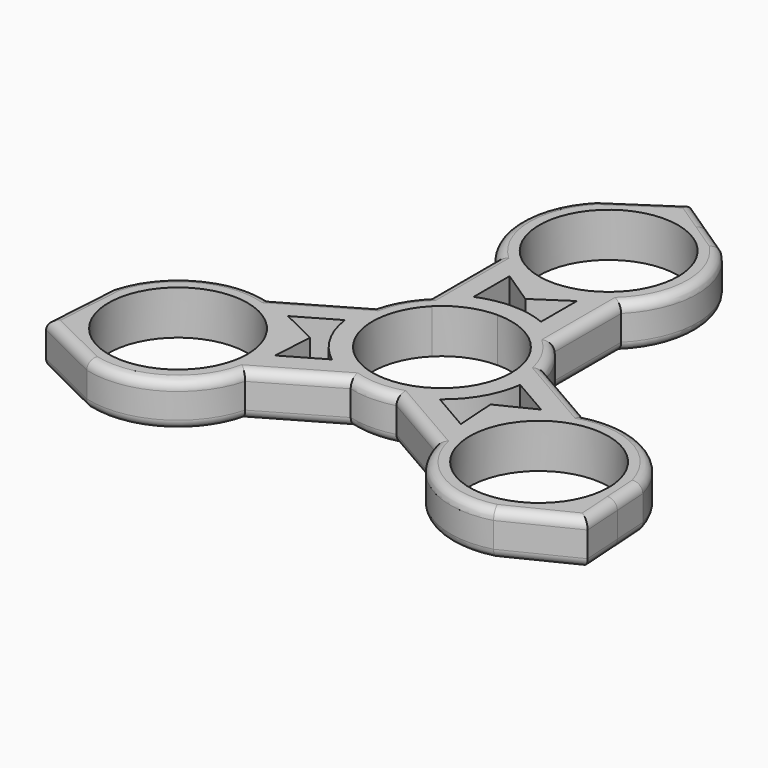
from build123d import *

# Parameters (mm, degrees)
F0_R     = 11
F1_DEPTH = 7
F2_R     = 1.5


with BuildPart() as f1:
    # F0 (on Top) → F1 (new body)
    with BuildSketch(Plane.XY):
        with BuildLine():
            Line((0, 49.5), (-5.3320213326, 45.94486572))
            ThreePointArc((-5.3320213326, 45.94486572), (0, 47), (5.3320213326, 45.94486572))
            Line((5.3320213326, 45.94486572), (0, 49.5))
        make_face()
        with BuildLine():
            ThreePointArc((-9.8994949366, 42.8994949366), (-14, 33), (-9.8994949366, 23.1005050634))
            Line((-9.8994949366, 23.1005050634), (-7.7781745931, 25.2218254069))
            ThreePointArc((-7.7781745931, 25.2218254069), (-4.209517756, 43.1626748576), (11, 33))
            ThreePointArc((11, 33), (10.1626748576, 28.790482244), (7.7781745931, 25.2218254069))
            Line((7.7781745931, 25.2218254069), (9.8994949366, 23.1005050634))
            ThreePointArc((9.8994949366, 23.1005050634), (14, 33), (9.8994949366, 42.8994949366))
            Line((9.8994949366, 42.8994949366), (5.3320213326, 45.94486572))
            ThreePointArc((5.3320213326, 45.94486572), (0, 47), (-5.3320213326, 45.94486572))
            Line((-5.3320213326, 45.94486572), (-9.8994949366, 42.8994949366))
        make_face()
        with BuildLine():
            Line((5.3320213326, 20.05513428), (9.8994949366, 23.1005050634))
            Line((9.8994949366, 23.1005050634), (7.7781745931, 25.2218254069))
            ThreePointArc((7.7781745931, 25.2218254069), (4.209517756, 22.8373251424), (0, 22))
            Line((0, 22), (0, 19))
            ThreePointArc((0, 19), (2.7177085863, 19.2663165888), (5.3320213326, 20.05513428))
        make_face()
        with BuildLine():
            Line((-7.7781745931, 25.2218254069), (-9.8994949366, 23.1005050634))
            Line((-9.8994949366, 23.1005050634), (-5.3320213326, 20.05513428))
            ThreePointArc((-5.3320213326, 20.05513428), (-2.7177085863, 19.2663165888), (0, 19))
            Line((0, 19), (0, 22))
            ThreePointArc((0, 22), (-4.209517756, 22.8373251424), (-7.7781745931, 25.2218254069))
        make_face()
        Polygon((-9.8994949366, 23.1005050634), (-9.8994949366, 9.8994949366), (-5.3320213326, 12.94486572), (-5.3320213326, 20.05513428), align=None)
        Polygon((5.3320213326, 12.94486572), (9.8994949366, 9.8994949366), (9.8994949366, 16.5), (5.3320213326, 16.5), align=None)
        Polygon((5.3320213326, 16.5), (9.8994949366, 16.5), (9.8994949366, 23.1005050634), (5.3320213326, 20.05513428), align=None)
        with BuildLine():
            ThreePointArc((0, 11), (4.209517756, 10.1626748576), (7.7781745931, 7.7781745931))
            Line((7.7781745931, 7.7781745931), (9.8994949366, 9.8994949366))
            Line((9.8994949366, 9.8994949366), (5.3320213326, 12.94486572))
            ThreePointArc((5.3320213326, 12.94486572), (2.7177085863, 13.7336834112), (0, 14))
            Line((0, 14), (0, 11))
        make_face()
        with BuildLine():
            Line((-9.8994949366, 9.8994949366), (-7.7781745931, 7.7781745931))
            ThreePointArc((-7.7781745931, 7.7781745931), (-4.209517756, 10.1626748576), (0, 11))
            Line((0, 11), (0, 14))
            ThreePointArc((0, 14), (-2.7177085863, 13.7336834112), (-5.3320213326, 12.94486572))
            Line((-5.3320213326, 12.94486572), (-9.8994949366, 9.8994949366))
        make_face()
        with BuildLine():
            ThreePointArc((7.7781745931, 7.7781745931), (10.1626748576, 4.209517756), (11, 0))
            ThreePointArc((11, 0), (-4.209517756, -10.1626748576), (-7.7781745931, 7.7781745931))
            Line((-7.7781745931, 7.7781745931), (-9.8994949366, 9.8994949366))
            ThreePointArc((-9.8994949366, 9.8994949366), (-12.124355653, 7), (-13.522961568, 3.6234666314))
            ThreePointArc((-13.522961568, 3.6234666314), (-13.9709219991, 0.9018528118), (-13.8765932284, -1.8547669325))
            ThreePointArc((-13.8765932284, -1.8547669325), (-12.124355653, -7), (-8.5445718958, -11.0900987875))
            ThreePointArc((-8.5445718958, -11.0900987875), (-6.2044335541, -12.5500997714), (-3.6234666314, -13.522961568))
            ThreePointArc((-3.6234666314, -13.522961568), (0, -14), (3.6234666314, -13.522961568))
            ThreePointArc((3.6234666314, -13.522961568), (6.2044335541, -12.5500997714), (8.5445718958, -11.0900987875))
            ThreePointArc((8.5445718958, -11.0900987875), (12.124355653, -7), (13.8765932284, -1.8547669325))
            ThreePointArc((13.8765932284, -1.8547669325), (13.9709219991, 0.9018528118), (13.522961568, 3.6234666314))
            ThreePointArc((13.522961568, 3.6234666314), (12.124355653, 7), (9.8994949366, 9.8994949366))
            Line((9.8994949366, 9.8994949366), (7.7781745931, 7.7781745931))
        make_face()
        with BuildLine():
            ThreePointArc((-13.8765932284, -1.8547669325), (-13.9709219991, 0.9018528118), (-13.522961568, 3.6234666314))
            Line((-13.522961568, 3.6234666314), (-24.9553716935, -2.977038432))
            Line((-24.9553716935, -2.977038432), (-20.0342664291, -5.4099012125))
            Line((-20.0342664291, -5.4099012125), (-13.8765932284, -1.8547669325))
        make_face()
        with BuildLine():
            ThreePointArc((-3.6234666314, -13.522961568), (-6.2044335541, -12.5500997714), (-8.5445718958, -11.0900987875))
            Line((-8.5445718958, -11.0900987875), (-14.7022450965, -14.6452330675))
            Line((-14.7022450965, -14.6452330675), (-15.0558767568, -20.1234666314))
            Line((-15.0558767568, -20.1234666314), (-3.6234666314, -13.522961568))
        make_face()
        with BuildLine():
            Line((-14.2894191624, -8.25), (-20.0342664291, -5.4099012125))
            ThreePointArc((-20.0342664291, -5.4099012125), (-16.4544826719, -9.5), (-14.7022450965, -14.6452330675))
            Line((-14.7022450965, -14.6452330675), (-14.2894191624, -8.25))
        make_face()
        with BuildLine():
            Line((-20.0342664291, -5.4099012125), (-24.9553716935, -2.977038432))
            ThreePointArc((-24.9553716935, -2.977038432), (-35.5788383249, -4.375644347), (-42.1017998929, -12.8765333686))
            Line((-42.1017998929, -12.8765333686), (-42.4554315533, -18.3547669325))
            ThreePointArc((-42.4554315533, -18.3547669325), (-40.7031939779, -23.5), (-37.1234102207, -27.5900987875))
            Line((-37.1234102207, -27.5900987875), (-32.2023049563, -30.022961568))
            ThreePointArc((-32.2023049563, -30.022961568), (-21.5788383249, -28.624355653), (-15.0558767568, -20.1234666314))
            Line((-15.0558767568, -20.1234666314), (-14.7022450965, -14.6452330675))
            ThreePointArc((-14.7022450965, -14.6452330675), (-16.4544826719, -9.5), (-20.0342664291, -5.4099012125))
        make_face()
        with Locations((-28.5788383249, -16.5)):
            Circle(F0_R, mode=Mode.SUBTRACT)
        with BuildLine():
            ThreePointArc((-37.1234102207, -27.5900987875), (-40.7031939779, -23.5), (-42.4554315533, -18.3547669325))
            Line((-42.4554315533, -18.3547669325), (-42.8682574873, -24.75))
            Line((-42.8682574873, -24.75), (-37.1234102207, -27.5900987875))
        make_face()
        with BuildLine():
            Line((14.7022450965, -14.6452330675), (8.5445718958, -11.0900987875))
            ThreePointArc((8.5445718958, -11.0900987875), (6.2044335541, -12.5500997714), (3.6234666314, -13.522961568))
            Line((3.6234666314, -13.522961568), (15.0558767568, -20.1234666314))
            Line((15.0558767568, -20.1234666314), (14.7022450965, -14.6452330675))
        make_face()
        with BuildLine():
            Line((24.9553716935, -2.977038432), (13.522961568, 3.6234666314))
            ThreePointArc((13.522961568, 3.6234666314), (13.9709219991, 0.9018528118), (13.8765932284, -1.8547669325))
            Line((13.8765932284, -1.8547669325), (20.0342664291, -5.4099012125))
            Line((20.0342664291, -5.4099012125), (24.9553716935, -2.977038432))
        make_face()
        with BuildLine():
            ThreePointArc((14.7022450965, -14.6452330675), (16.4544826719, -9.5), (20.0342664291, -5.4099012125))
            Line((20.0342664291, -5.4099012125), (14.2894191624, -8.25))
            Line((14.2894191624, -8.25), (14.7022450965, -14.6452330675))
        make_face()
        with BuildLine():
            ThreePointArc((42.1017998929, -12.8765333686), (35.5788383249, -4.375644347), (24.9553716935, -2.977038432))
            Line((24.9553716935, -2.977038432), (20.0342664291, -5.4099012125))
            ThreePointArc((20.0342664291, -5.4099012125), (16.4544826719, -9.5), (14.7022450965, -14.6452330675))
            Line((14.7022450965, -14.6452330675), (15.0558767568, -20.1234666314))
            ThreePointArc((15.0558767568, -20.1234666314), (21.5788383249, -28.624355653), (32.2023049563, -30.022961568))
            Line((32.2023049563, -30.022961568), (37.1234102207, -27.5900987875))
            ThreePointArc((37.1234102207, -27.5900987875), (40.7031939779, -23.5), (42.4554315533, -18.3547669325))
            Line((42.4554315533, -18.3547669325), (42.1017998929, -12.8765333686))
        make_face()
        with Locations((28.5788383249, -16.5)):
            Circle(F0_R, mode=Mode.SUBTRACT)
        with BuildLine():
            Line((42.8682574873, -24.75), (42.4554315533, -18.3547669325))
            ThreePointArc((42.4554315533, -18.3547669325), (40.7031939779, -23.5), (37.1234102207, -27.5900987875))
            Line((37.1234102207, -27.5900987875), (42.8682574873, -24.75))
        make_face()
        with BuildLine():
            Line((-5.3320213326, 20.05513428), (0, 16.5))
            Line((0, 16.5), (0, 19))
            ThreePointArc((0, 19), (-2.7177085863, 19.2663165888), (-5.3320213326, 20.05513428))
        make_face()
        with BuildLine():
            Line((0, 19), (0, 16.5))
            Line((0, 16.5), (5.3320213326, 20.05513428))
            ThreePointArc((5.3320213326, 20.05513428), (2.7177085863, 19.2663165888), (0, 19))
        make_face()
    extrude(amount=F1_DEPTH)

    # F2
    f2_edges = [f1.edges().sort_by_distance(p)[0] for p in [
        (-14, 33, 7),
        (-4.949747, 46.199747, 7),
        (4.949747, 46.199747, 7),
        (14, 33, 7),
        (9.899495, 16.5, 7),
        (12.124356, 7, 7),
        (19.239167, 0.323214, 7),
        (35.578838, -4.375644, 7),
        (42.485029, -18.813267, 7),
        (37.535281, -27.386481, 7),
        (21.578838, -28.624356, 7),
        (9.339672, -16.823214, 7),
        (0, -14, 7),
        (-9.339672, -16.823214, 7),
        (-21.578838, -28.624356, 7),
        (-37.535281, -27.386481, 7),
        (-42.485029, -18.813267, 7),
        (-35.578838, -4.375644, 7),
        (-19.239167, 0.323214, 7),
        (-9.899495, 16.5, 7),
        (-12.124356, 7, 7),
        (9.339672, -16.823214, 0),
        (21.578838, -28.624356, 0),
        (37.535281, -27.386481, 0),
        (42.485029, -18.813267, 0),
        (35.578838, -4.375644, 0),
        (19.239167, 0.323214, 0),
        (12.124356, 7, 0),
        (9.899495, 16.5, 0),
        (14, 33, 0),
        (4.949747, 46.199747, 0),
        (-4.949747, 46.199747, 0),
        (-14, 33, 0),
        (-9.899495, 16.5, 0),
        (-12.124356, 7, 0),
        (-19.239167, 0.323214, 0),
        (-35.578838, -4.375644, 0),
        (-42.485029, -18.813267, 0),
        (-37.535281, -27.386481, 0),
        (-21.578838, -28.624356, 0),
        (0, -14, 0),
        (-9.339672, -16.823214, 0),
    ]]
    fillet(f2_edges, radius=F2_R)


solid = f1.part
